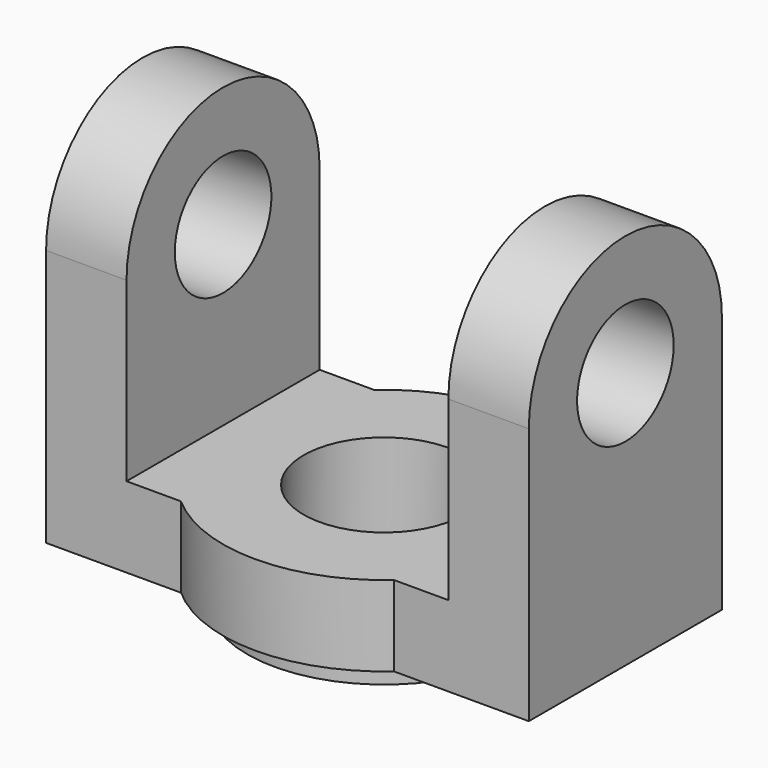
from build123d import *

# Parameters (mm, degrees)
F0_R     = 10
F1_DEPTH = 10
F2_R     = 17
F2_R_2   = 10
F3_DEPTH = 3
F4_R     = 7.5
F5_DEPTH = 10
F6_R     = 7.5
F7_DEPTH = 10


with BuildPart() as f1:
    # F0 (on Top) → F1 (new body)
    with BuildSketch(Plane.XY):
        with BuildLine():
            Line((-30, -15), (-13.228757, -15))
            ThreePointArc((-13.228757, -15), (0, -20), (13.228757, -15))
            Line((13.228757, -15), (30, -15))
            Line((30, -15), (30, 15))
            Line((30, 15), (13.228757, 15))
            ThreePointArc((13.228757, 15), (0, 20), (-13.228757, 15))
            Line((-13.228757, 15), (-30, 15))
            Line((-30, 15), (-30, -15))
        make_face()
        Circle(F0_R, mode=Mode.SUBTRACT)
    extrude(amount=F1_DEPTH)

    # F2 (on face) → F3 (join)
    with BuildSketch(Plane(origin=(0, 0, 0), x_dir=(1, 0, 0), z_dir=(0, 0, -1))):
        Circle(F2_R)
        Circle(F2_R_2, mode=Mode.SUBTRACT)
    extrude(amount=F3_DEPTH)

    # F4 (on face) → F5 (join)
    with BuildSketch(Plane(origin=(-30, 0, 0), x_dir=(0, -1, 0), z_dir=(-1, 0, 0))):
        with BuildLine():
            Line((-15, 32), (-15, 10))
            Line((-15, 10), (15, 10))
            Line((15, 10), (15, 32))
            ThreePointArc((15, 32), (0, 47), (-15, 32))
        make_face()
        with Locations((0, 32)):
            Circle(F4_R, mode=Mode.SUBTRACT)
    extrude(amount=-F5_DEPTH)

    # F6 (on face) → F7 (join)
    with BuildSketch(Plane.YZ.offset(30)):
        with BuildLine():
            Line((-15, 32), (-15, 10))
            Line((-15, 10), (15, 10))
            Line((15, 10), (15, 32))
            ThreePointArc((15, 32), (0, 47), (-15, 32))
        make_face()
        with Locations((0, 32)):
            Circle(F6_R, mode=Mode.SUBTRACT)
    extrude(amount=-F7_DEPTH)


solid = f1.part
